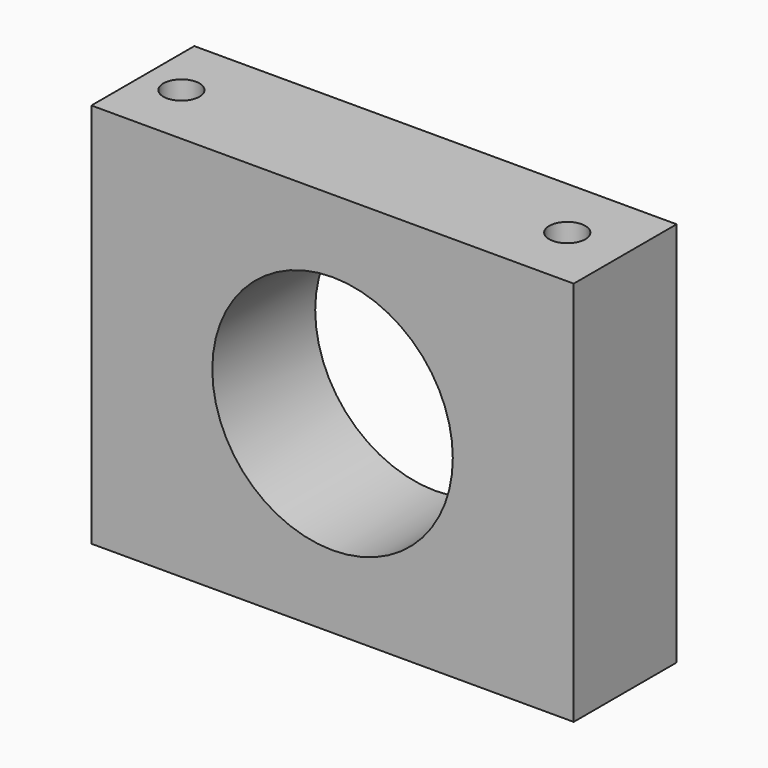
from build123d import *

# Parameters (mm, degrees)
F0_W     = 95.25
F0_H     = 76.2
F0_R     = 23.749
F1_DEPTH = 25.4
F2_R     = 3.5687
F3_DEPTH = 76.201


with BuildPart() as f1:
    # F0 (on Front) → F1 (new body)
    with BuildSketch(Plane.XZ):
        Rectangle(F0_W, F0_H)
        Circle(F0_R, mode=Mode.SUBTRACT)
    extrude(amount=F1_DEPTH)

    # F2 (on face) → F3 (cut, through all)
    with BuildSketch(Plane.XY.offset(38.1)):
        with Locations((-40.005002, -12.7)):
            Circle(F2_R)
        with Locations((36.194998, -12.7)):
            Circle(F2_R)
    extrude(amount=-F3_DEPTH, mode=Mode.SUBTRACT)


solid = f1.part
